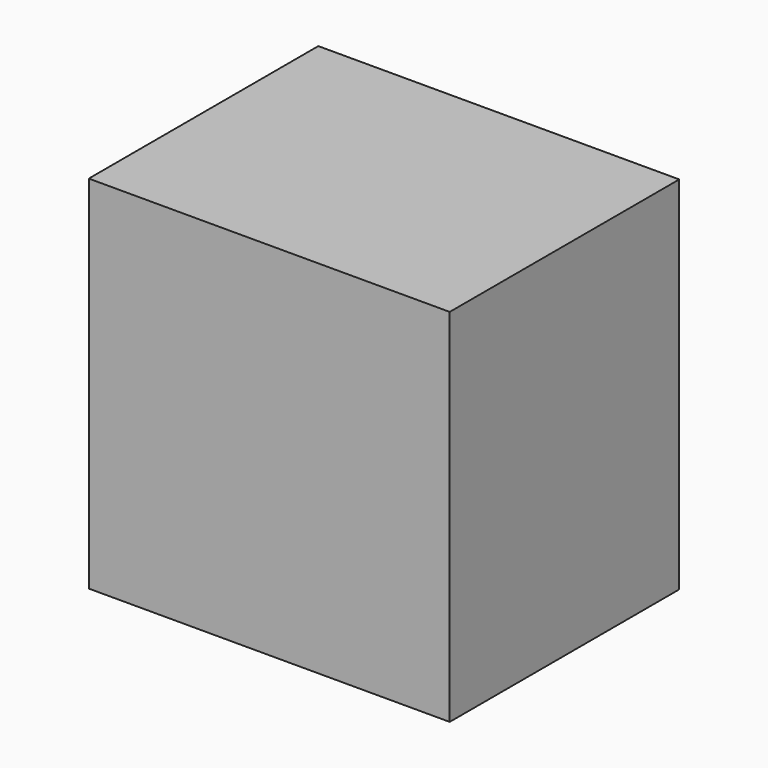
from build123d import *

# Parameters (mm, degrees)
CYLINDER013_R     = 11
CYLINDER013_DEPTH = 2
CYLINDER014_R     = 2.5
CYLINDER014_DEPTH = 14
CYLINDER010_R     = 1.5
CYLINDER010_DEPTH = 10
CYLINDER011_R     = 1.5
CYLINDER011_DEPTH = 10
CYLINDER012_R     = 1.5
CYLINDER012_DEPTH = 10
CYLINDER009_R     = 1.5
CYLINDER009_DEPTH = 10
BOX001_W          = 39
BOX001_H          = 31
BOX001_DEPTH      = 39


with BuildPart() as cylinder013:
    # Cylinder013 → Cylinder013 (new body)
    with BuildSketch(Plane(origin=(19.5, 33, 19.5), x_dir=(1, 0, 0), z_dir=(0, -1, 0))):
        Circle(CYLINDER013_R)
    extrude(amount=CYLINDER013_DEPTH)


with BuildPart() as cylinder014:
    # Cylinder014 → Cylinder014 (new body)
    with BuildSketch(Plane(origin=(19.5, 33, 19.5), x_dir=(1, 0, 0), z_dir=(0, 1, 0))):
        Circle(CYLINDER014_R)
    extrude(amount=CYLINDER014_DEPTH)


with BuildPart() as cylinder010:
    # Cylinder010 → Cylinder010 (new body)
    with BuildSketch(Plane(origin=(35, 23, 35), x_dir=(1, 0, 0), z_dir=(0, 1, 0))):
        Circle(CYLINDER010_R)
    extrude(amount=CYLINDER010_DEPTH)


with BuildPart() as cylinder011:
    # Cylinder011 → Cylinder011 (new body)
    with BuildSketch(Plane(origin=(35, 23, 4), x_dir=(1, 0, 0), z_dir=(0, 1, 0))):
        Circle(CYLINDER011_R)
    extrude(amount=CYLINDER011_DEPTH)


with BuildPart() as cylinder012:
    # Cylinder012 → Cylinder012 (new body)
    with BuildSketch(Plane(origin=(4, 23, 4), x_dir=(1, 0, 0), z_dir=(0, 1, 0))):
        Circle(CYLINDER012_R)
    extrude(amount=CYLINDER012_DEPTH)


with BuildPart() as cylinder009:
    # Cylinder009 → Cylinder009 (new body)
    with BuildSketch(Plane(origin=(4, 23, 35), x_dir=(1, 0, 0), z_dir=(0, 1, 0))):
        Circle(CYLINDER009_R)
    extrude(amount=CYLINDER009_DEPTH)


with BuildPart() as fusion001:
    # Box001 → Box001 (new body)
    with BuildSketch(Plane.XY):
        with Locations((19.5, 15.5)):
            Rectangle(BOX001_W, BOX001_H)
    extrude(amount=BOX001_DEPTH)

    # Cut005: cut Cylinder009
    add(cylinder009.part, mode=Mode.SUBTRACT)

    # Cut006: cut Cylinder012
    add(cylinder012.part, mode=Mode.SUBTRACT)

    # Cut007: cut Cylinder011
    add(cylinder011.part, mode=Mode.SUBTRACT)

    # Cut008: cut Cylinder010
    add(cylinder010.part, mode=Mode.SUBTRACT)

    # Fusion001: union Cylinder013, Cylinder014
    add(cylinder013.part)
    add(cylinder014.part)


with BuildPart() as fusion001_1:
    # Fusion001 placement: moved
    add(fusion001.part.moved(Location((2, -31, 4))))


solid = fusion001_1.part
